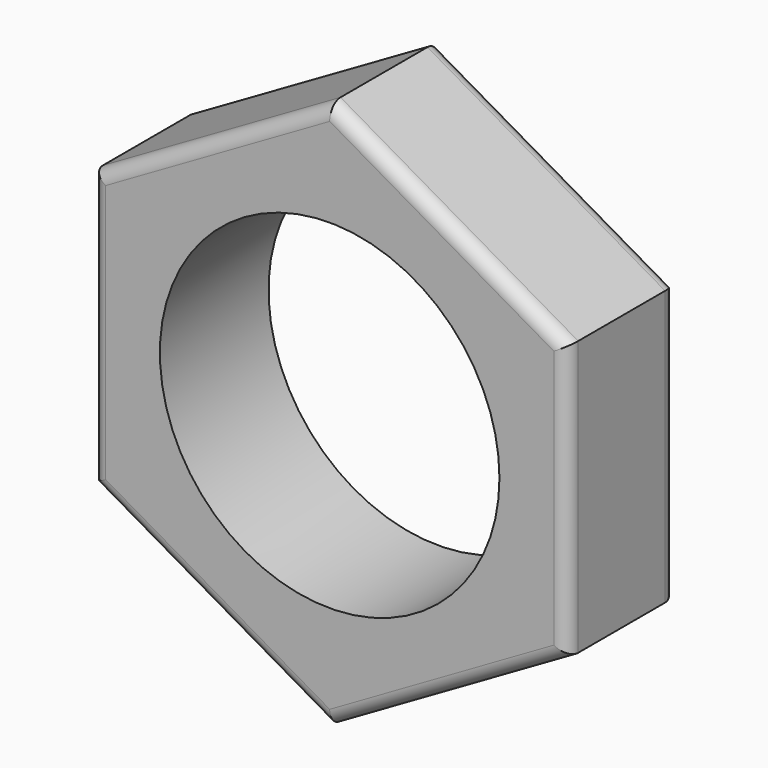
from build123d import *

# Parameters (mm, degrees)
F1_DEPTH = 10
F2_R     = 12.5
F3_DEPTH = 10.001
F4_R     = 1


with BuildPart() as f1:
    # F0 (on Front) → F1 (new body)
    with BuildSketch(Plane.XZ):
        Polygon((17.5, 10.10363), (0, 20.207259), (-17.5, 10.10363), (-17.5, -10.10363), (0, -20.207259), (17.5, -10.10363), align=None)
    extrude(amount=F1_DEPTH)

    # F2 (on face) → F3 (cut, through all)
    with BuildSketch(Plane.XZ.offset(10)):
        Circle(F2_R)
    extrude(amount=-F3_DEPTH, mode=Mode.SUBTRACT)

    # F4
    f4_edges = [f1.edges().sort_by_distance(p)[0] for p in [
        (8.75, -10, 15.155445),
        (-8.75, -10, 15.155445),
        (17.5, -10, 0),
        (8.75, -10, -15.155445),
        (-8.75, -10, -15.155445),
        (-17.5, -10, 0),
        (8.75, 0, 15.155445),
        (-8.75, 0, 15.155445),
        (-17.5, 0, 0),
        (-8.75, 0, -15.155445),
        (8.75, 0, -15.155445),
        (17.5, 0, 0),
    ]]
    fillet(f4_edges, radius=F4_R)


solid = f1.part
